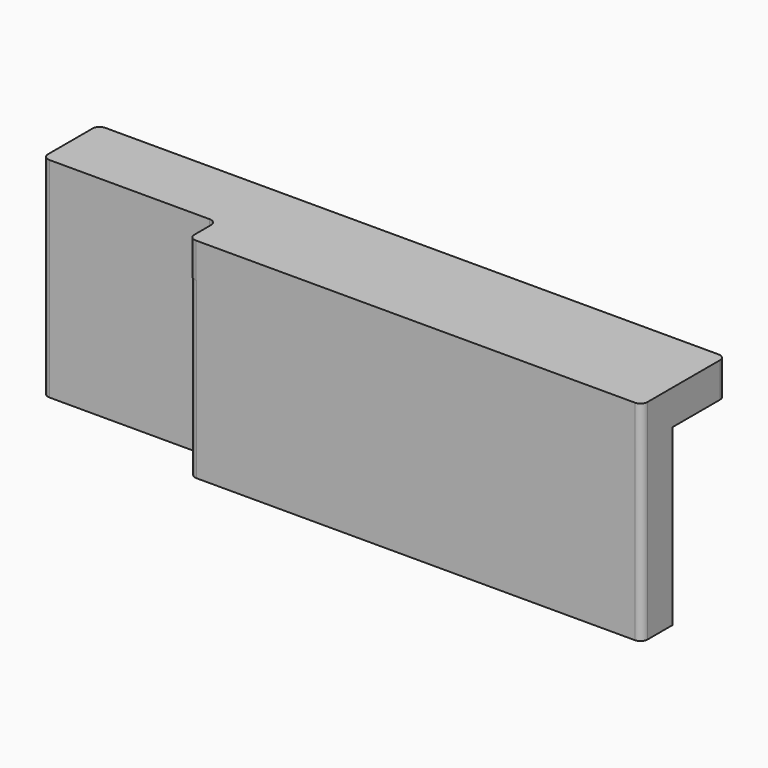
from build123d import *

# Parameters (mm, degrees)
F1_DEPTH = 5
F3_DEPTH = 25


with BuildPart() as f1:
    # F0 (on Top) → F1 (new body)
    with BuildSketch(Plane.XY):
        with BuildLine():
            ThreePointArc((-32.5, -6.5), (-32.207107, -7.207107), (-31.5, -7.5))
            Line((-31.5, -7.5), (31.5, -7.5))
            ThreePointArc((31.5, -7.5), (32.207107, -7.207107), (32.5, -6.5))
            Line((32.5, -6.5), (32.5, 6.5))
            ThreePointArc((32.5, 6.5), (32.207107, 7.207107), (31.5, 7.5))
            Line((31.5, 7.5), (-32.5, 7.5))
            Line((-32.5, 7.5), (-56.5, 7.5))
            ThreePointArc((-56.5, 7.5), (-57.207107, 7.207107), (-57.5, 6.5))
            Line((-57.5, 6.5), (-57.5, -1.5))
            ThreePointArc((-57.5, -1.5), (-57.207107, -2.207107), (-56.5, -2.5))
            Line((-56.5, -2.5), (-33.5, -2.5))
            ThreePointArc((-33.5, -2.5), (-32.792893, -2.792893), (-32.5, -3.5))
            Line((-32.5, -3.5), (-32.5, -6.5))
        make_face()
    extrude(amount=F1_DEPTH)

    # F2 (on face) → F3 (join)
    with BuildSketch(Plane(origin=(0, 0, 0), x_dir=(1, 0, 0), z_dir=(0, 0, -1))):
        with BuildLine():
            Line((-57.5, 1.5), (-57.5, -2.5))
            Line((-57.5, -2.5), (27.949167, -2.5))
            Line((27.949167, -2.5), (32.5, 2))
            Line((32.5, 2), (32.5, 6.5))
            ThreePointArc((32.5, 6.5), (32.207107, 7.207107), (31.5, 7.5))
            Line((31.5, 7.5), (-31.39955, 7.5))
            ThreePointArc((-31.39955, 7.5), (-32.106657, 7.207107), (-32.39955, 6.5))
            Line((-32.39955, 6.5), (-32.39955, 3.5))
            ThreePointArc((-32.39955, 3.5), (-32.692443, 2.792893), (-33.39955, 2.5))
            Line((-33.39955, 2.5), (-33.5, 2.5))
            Line((-33.5, 2.5), (-56.5, 2.5))
            ThreePointArc((-56.5, 2.5), (-57.207107, 2.207107), (-57.5, 1.5))
        make_face()
    extrude(amount=F3_DEPTH)


solid = f1.part
